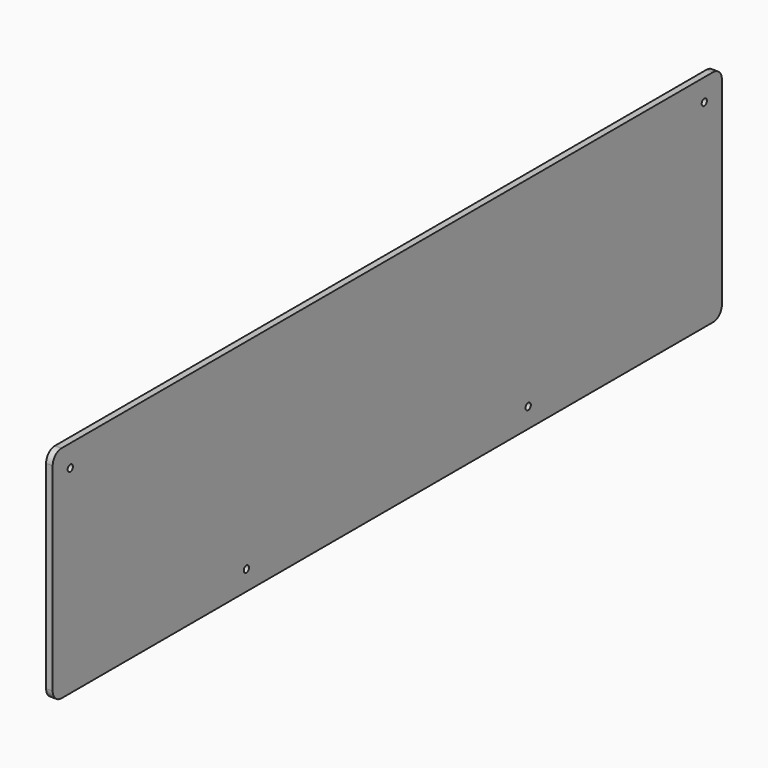
from build123d import *

# Parameters (mm, degrees)
F0_W     = 3
F0_H     = 380
F1_DEPTH = 100
F2_R     = 5
F4_D     = 3


with BuildPart() as f1:
    # F0 (on Top) → F1 (new body)
    with BuildSketch(Plane.XY):
        with Locations((-1.5, 0)):
            Rectangle(F0_W, F0_H)
    extrude(amount=F1_DEPTH)

    # F2
    f2_edges = [f1.edges().sort_by_distance(p)[0] for p in [
        (-1.5, -190, 100),
        (-1.5, -190, 0),
        (-1.5, 190, 0),
        (-1.5, 190, 100),
    ]]
    fillet(f2_edges, radius=F2_R)

    # F4 (through all)
    with Locations(Plane.YZ):
        with Locations((180, 90), (80, 9), (-80, 9), (-180, 90)):
            Hole(F4_D / 2)


solid = f1.part
